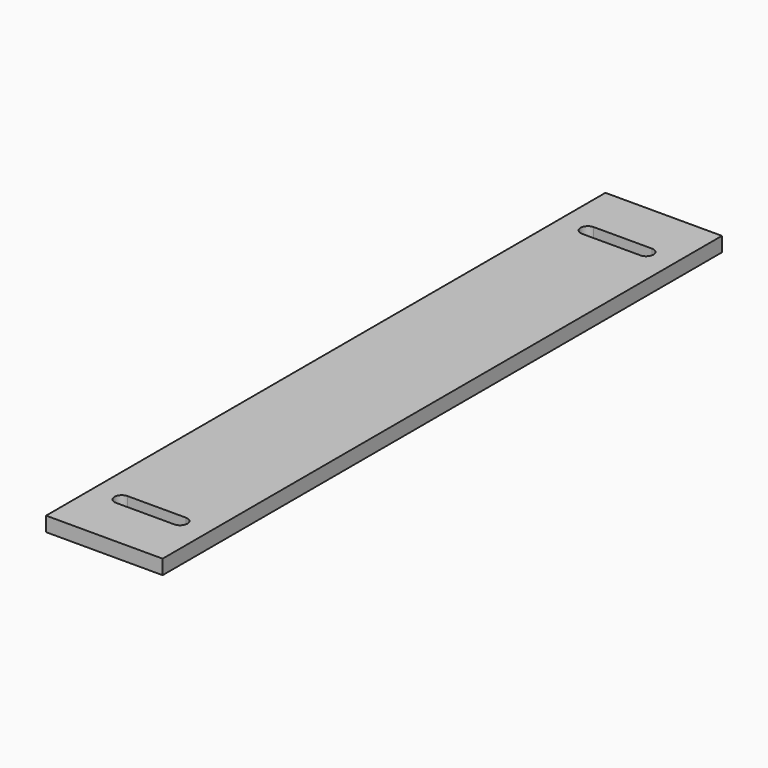
from build123d import *

# Parameters (mm, degrees)
F0_W     = 50.8
F0_H     = 304.8
F1_DEPTH = 6.35
F3_DEPTH = 25.4


with BuildPart() as f1:
    # F0 (on Top) → F1 (new body)
    with BuildSketch(Plane.XY):
        Rectangle(F0_W, F0_H)
    extrude(amount=F1_DEPTH)

    # F2 (on Top) → F3 (cut)
    with BuildSketch(Plane.XY):
        with BuildLine():
            Line((12.7, 130.175), (-12.7, 130.175))
            ThreePointArc((-12.7, 130.175), (-15.875, 127), (-12.7, 123.825))
            Line((-12.7, 123.825), (12.7, 123.825))
            ThreePointArc((12.7, 123.825), (15.875, 127), (12.7, 130.175))
        make_face()
        with BuildLine():
            Line((12.7, -123.825), (-12.7, -123.825))
            ThreePointArc((-12.7, -123.825), (-15.875, -127), (-12.7, -130.175))
            Line((-12.7, -130.175), (12.7, -130.175))
            ThreePointArc((12.7, -130.175), (15.875, -127), (12.7, -123.825))
        make_face()
    extrude(amount=F3_DEPTH, mode=Mode.SUBTRACT)


solid = f1.part
